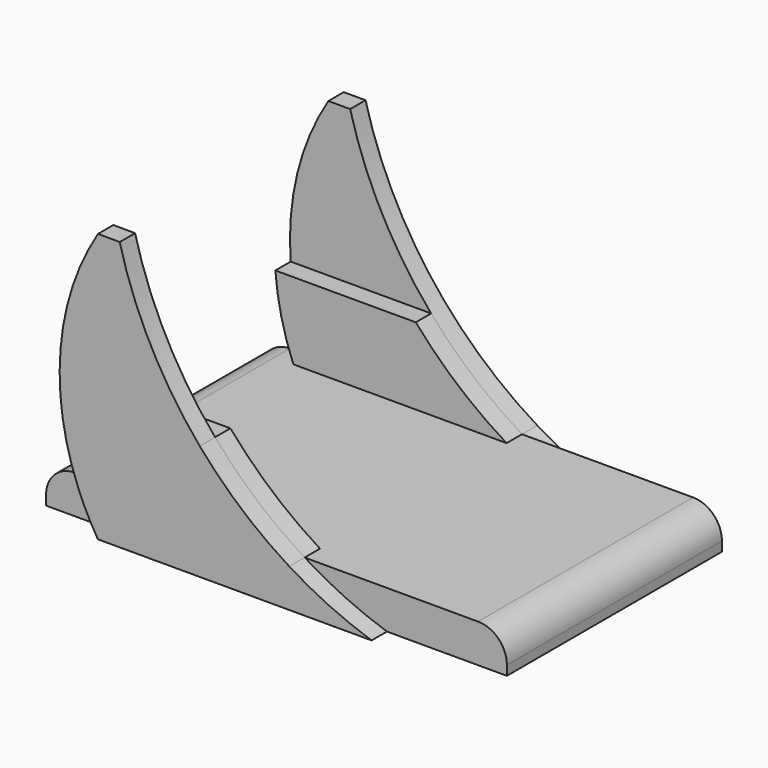
from build123d import *

# Parameters (mm, degrees)
F0_W      = 152.4
F0_H      = 88.9
F1_DEPTH  = 12.7
F3_R      = 9.525
F4_R      = 9.525
F6_DEPTH  = 6.35
F7_DEPTH  = 6.35
F9_DEPTH  = 6.35
F10_DEPTH = 6.35


with BuildPart() as f1:
    # F0 (on Top) → F1 (new body)
    with BuildSketch(Plane.XY):
        Rectangle(F0_W, F0_H)
    extrude(amount=F1_DEPTH)

    # F3
    f3_edges = [f1.edges().sort_by_distance(p)[0] for p in [
        (-76.2, 0, 12.7),
    ]]
    fillet(f3_edges, radius=F3_R)

    # F4
    f4_edges = [f1.edges().sort_by_distance(p)[0] for p in [
        (76.2, 0, 12.7),
    ]]
    fillet(f4_edges, radius=F4_R)


with BuildPart() as f6:
    # F2 (on face) → F6 (new body)
    with BuildSketch(Plane.XZ.offset(44.45)):
        with BuildLine():
            Line((-46.7672212421, 88.9), (-53.949354118, 88.9411901131))
            ThreePointArc((-53.949354118, 88.9411901131), (-64.2172051604, 64.5106633707), (-66.3980908187, 38.1))
            Line((-66.3980908187, 38.1), (-20.3116443752, 38.1))
            ThreePointArc((-20.3116443752, 38.1), (-36.4405926527, 61.9891366681), (-46.7672212421, 88.9))
        make_face()
        with BuildLine():
            Line((-20.3116443752, 38.1), (-66.3980908187, 38.1))
            ThreePointArc((-66.3980908187, 38.1), (-64.4039846699, 25.1679956225), (-60.4338106551, 12.7))
            Line((-60.4338106551, 12.7), (9.2985986694, 12.7))
            ThreePointArc((9.2985986694, 12.7), (-6.4876404108, 24.2562547502), (-20.3116443752, 38.1))
        make_face()
        with BuildLine():
            Line((9.2985986694, 12.7), (-60.4338106551, 12.7))
            ThreePointArc((-60.4338106551, 12.7), (-57.4730413053, 6.2133804004), (-53.975, 0))
            Line((-53.975, 0), (36.5442627102, 0))
            ThreePointArc((36.5442627102, 0), (22.5443530675, 5.5410448651), (9.2985986694, 12.7))
        make_face()
    extrude(amount=F6_DEPTH)

    # F2 (on face) → F7 (join)
    with BuildSketch(Plane.XZ.offset(44.45)):
        with BuildLine():
            Line((-20.3116443752, 38.1), (-66.3980908187, 38.1))
            ThreePointArc((-66.3980908187, 38.1), (-64.4039846699, 25.1679956225), (-60.4338106551, 12.7))
            Line((-60.4338106551, 12.7), (9.2985986694, 12.7))
            ThreePointArc((9.2985986694, 12.7), (-6.4876404108, 24.2562547502), (-20.3116443752, 38.1))
        make_face()
    extrude(amount=-F7_DEPTH)


with BuildPart() as f9:
    # F8 (on face) → F9 (new body)
    with BuildSketch(Plane(origin=(0, 44.45, 0), x_dir=(-1, 0, 0), z_dir=(0, 1, 0))):
        with BuildLine():
            ThreePointArc((46.751059991, 88.9), (36.2689527155, 61.9663203319), (19.9687555629, 38.1))
            Line((19.9687555629, 38.1), (66.4188739109, 38.1))
            ThreePointArc((66.4188739109, 38.1), (64.2367184959, 64.492844585), (53.9588387489, 88.9))
            Line((53.9588387489, 88.9), (46.751059991, 88.9))
        make_face()
        with BuildLine():
            ThreePointArc((19.9687555629, 38.1), (5.9435943919, 24.2304998237), (-10.0600225377, 12.7))
            Line((-10.0600225377, 12.7), (60.4383228169, 12.7))
            ThreePointArc((60.4383228169, 12.7), (64.4192914608, 25.1667365872), (66.4188739109, 38.1))
            Line((66.4188739109, 38.1), (19.9687555629, 38.1))
        make_face()
        with BuildLine():
            ThreePointArc((-10.0600225377, 12.7), (-23.7017078095, 5.4964216156), (-38.1161612511, 0))
            Line((-38.1161612511, 0), (53.9588387489, 0))
            ThreePointArc((53.9588387489, 0), (57.4680730194, 6.2125062478), (60.4383228169, 12.7))
            Line((60.4383228169, 12.7), (-10.0600225377, 12.7))
        make_face()
    extrude(amount=F9_DEPTH)

    # F8 (on face) → F10 (join)
    with BuildSketch(Plane(origin=(0, 44.45, 0), x_dir=(-1, 0, 0), z_dir=(0, 1, 0))):
        with BuildLine():
            ThreePointArc((19.9687555629, 38.1), (5.9435943919, 24.2304998237), (-10.0600225377, 12.7))
            Line((-10.0600225377, 12.7), (60.4383228169, 12.7))
            ThreePointArc((60.4383228169, 12.7), (64.4192914608, 25.1667365872), (66.4188739109, 38.1))
            Line((66.4188739109, 38.1), (19.9687555629, 38.1))
        make_face()
    extrude(amount=-F10_DEPTH)


solid = Compound([f1.part, f6.part, f9.part])
